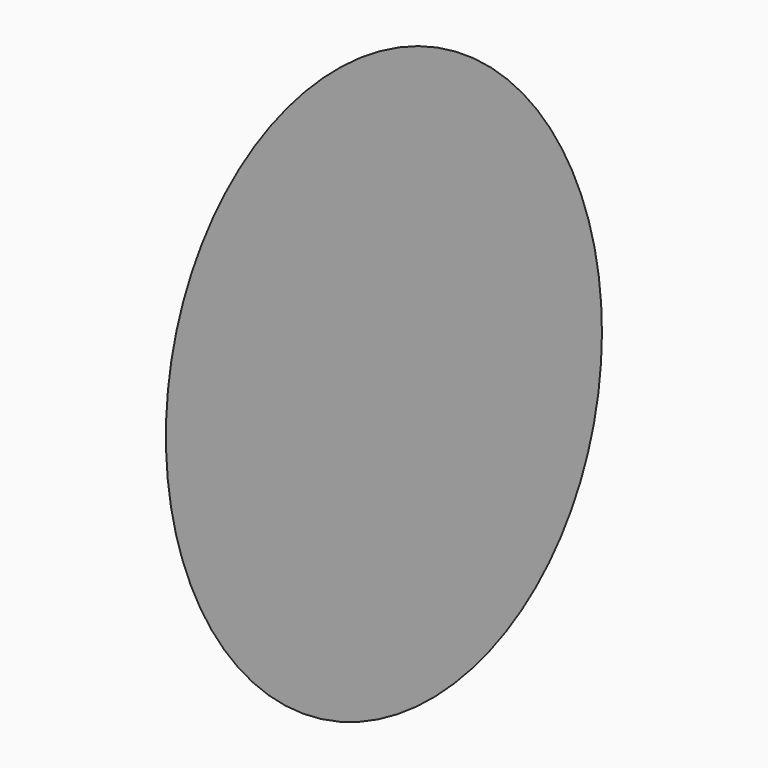
from build123d import *

# Parameters (mm, degrees)
F3_R = 36.89731


with BuildPart() as f4:
    # F3 (on face) → F4 section 0
    with BuildSketch(Plane(origin=(-3.353295, 0, -0.601038), x_dir=(0, -1, 0), z_dir=(-0.984314, 0, -0.176426)), mode=Mode.PRIVATE) as f4_s0:
        with Locations((0, -55.904067)):
            Circle(F3_R)
    loft([Vertex(1.05325, 0, -60.12487), f4_s0.sketch])


solid = f4.part
